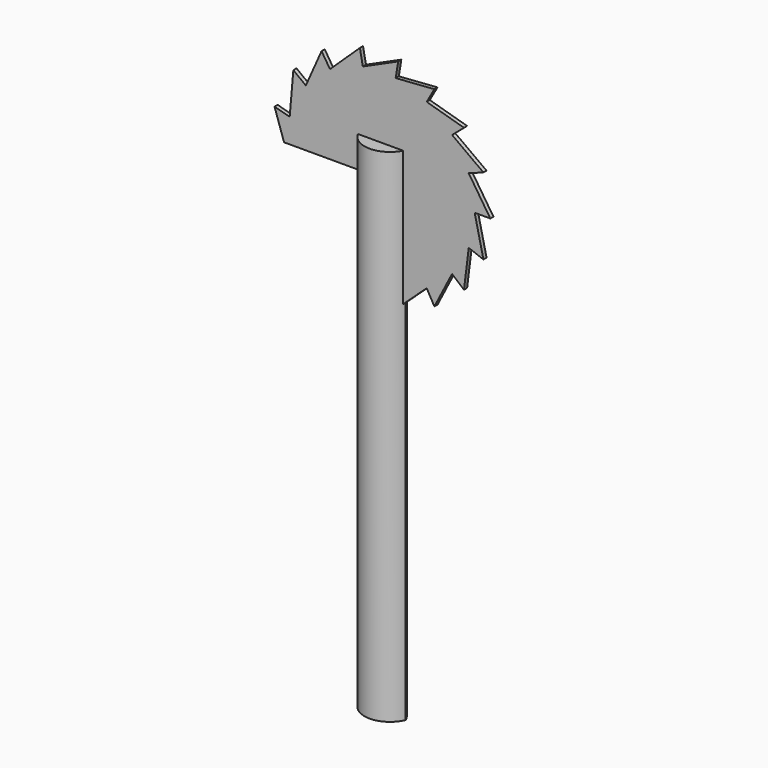
from build123d import *

# Parameters (mm, degrees)
F1_DEPTH      = 406.4
F3_DEPTH      = 1.5875
F3_DEPTH_BACK = 1.5875


with BuildPart() as f1:
    # F0 (on Top) → F1 (new body)
    with BuildSketch(Plane.XY):
        with BuildLine():
            ThreePointArc((-19.05, 0), (0, -12.7), (19.05, 0))
            ThreePointArc((19.05, 0), (0, 12.7), (-19.05, 0))
        make_face()
    extrude(amount=F1_DEPTH)


with BuildPart() as f3:
    # F2 (on Front) → F3 (new body, two sides)
    with BuildSketch(Plane.XZ) as f3_sk:
        Polygon((-78.197195, 381), (0, 381), (0, 292.1), (14.278971, 293.254225), (37.349182, 314.581037), (43.574046, 303.51121), (57.906353, 331.469259), (67.557412, 323.214135), (71.404697, 354.395314), (83.305479, 349.9612), (76.2, 381), (88.9, 381), (71.404697, 407.604686), (83.305479, 412.0388), (57.906353, 430.530741), (67.557412, 438.785865), (37.349182, 447.418963), (43.574046, 458.48879), (12.239118, 456.210664), (14.278971, 468.745775), (-14.365567, 455.833619), (-16.759829, 468.305888), (-40.970253, 445.248567), (-47.798629, 455.956662), (-60.560576, 427.247774), (-70.654005, 434.955737), (-73.62465, 400.643088), (-85.895425, 403.916937), align=None)
    extrude(amount=F3_DEPTH)
    extrude(f3_sk.sketch, amount=-F3_DEPTH_BACK)


solid = Compound([f1.part, f3.part])
